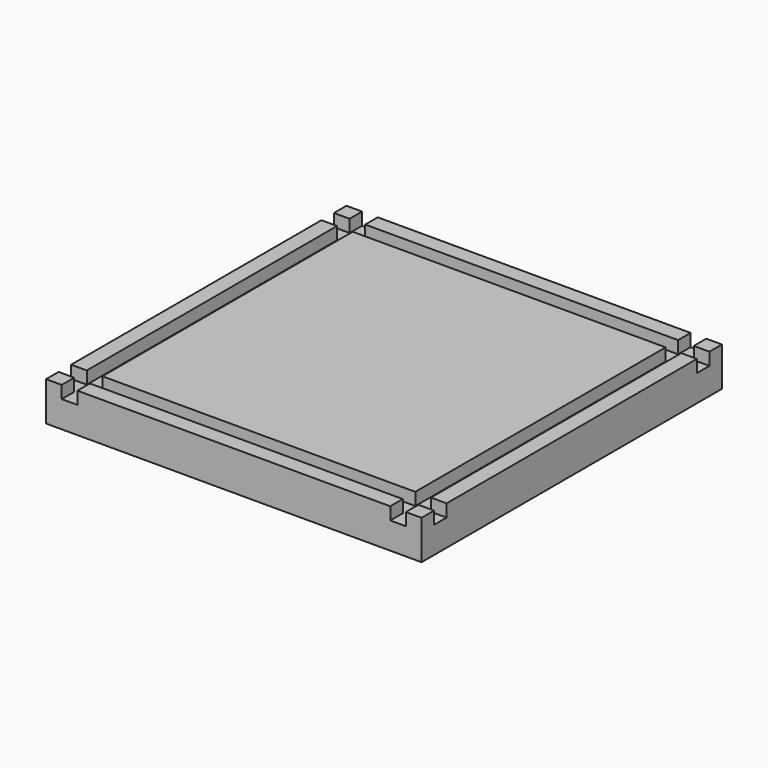
from build123d import *

# Parameters (mm, degrees)
F0_W     = 240
F0_H     = 240
F1_DEPTH = 25
F2_W     = 10
F2_H     = 10
F2_H_2   = 200
F2_W_2   = 200
F3_DEPTH = 8


with BuildPart() as f1:
    # F0 (on Top) → F1 (new body)
    with BuildSketch(Plane.XY):
        Rectangle(F0_W, F0_H)
    extrude(amount=-F1_DEPTH)

    # F2 (on face) → F3 (cut)
    with BuildSketch(Plane.XY):
        with Locations((-105, 115)):
            Rectangle(F2_W, F2_H)
        with Locations((-105, 105)):
            Rectangle(F2_W, F2_H)
        with Locations((-115, 105)):
            Rectangle(F2_W, F2_H)
        with Locations((-105, 0)):
            Rectangle(F2_W, F2_H_2)
        with Locations((0, 105)):
            Rectangle(F2_W_2, F2_H)
        with Locations((105, 115)):
            Rectangle(F2_W, F2_H)
        with Locations((115, 105)):
            Rectangle(F2_W, F2_H)
        with Locations((105, 105)):
            Rectangle(F2_W, F2_H)
        with Locations((105, 0)):
            Rectangle(F2_W, F2_H_2)
        with Locations((105, -115)):
            Rectangle(F2_W, F2_H)
        with Locations((105, -105)):
            Rectangle(F2_W, F2_H)
        with Locations((115, -105)):
            Rectangle(F2_W, F2_H)
        with Locations((0, -105)):
            Rectangle(F2_W_2, F2_H)
        with Locations((-105, -105)):
            Rectangle(F2_W, F2_H)
        with Locations((-105, -115)):
            Rectangle(F2_W, F2_H)
        with Locations((-115, -105)):
            Rectangle(F2_W, F2_H)
    extrude(amount=-F3_DEPTH, mode=Mode.SUBTRACT)


solid = f1.part
